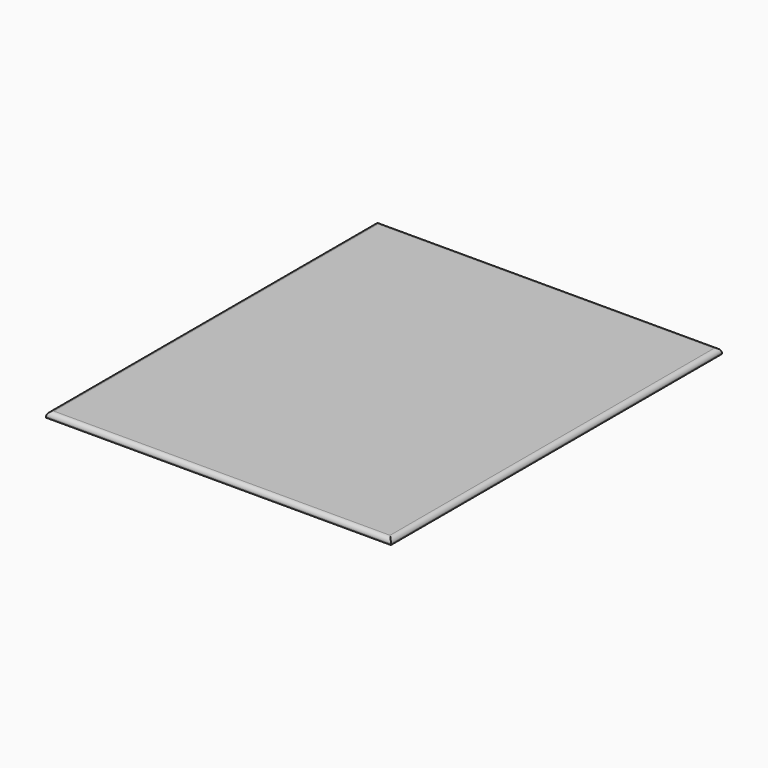
from build123d import *

# Parameters (mm, degrees)
SKETCH_W  = 127
SKETCH_H  = 152.4
PAD_DEPTH = 2
FILLET_R  = 1.6


with BuildPart() as part:
    # Sketch → Pad (new body)
    with BuildSketch(Plane.XY):
        Rectangle(SKETCH_W, SKETCH_H)
    extrude(amount=PAD_DEPTH)

    # Fillet
    fillet_edges = [part.edges().sort_by_distance(p)[0] for p in [
        (0, -76.2, 2),
        (63.5, 0, 2),
        (0, 76.2, 2),
        (-63.5, 0, 2),
    ]]
    fillet(fillet_edges, radius=FILLET_R)


solid = part.part
